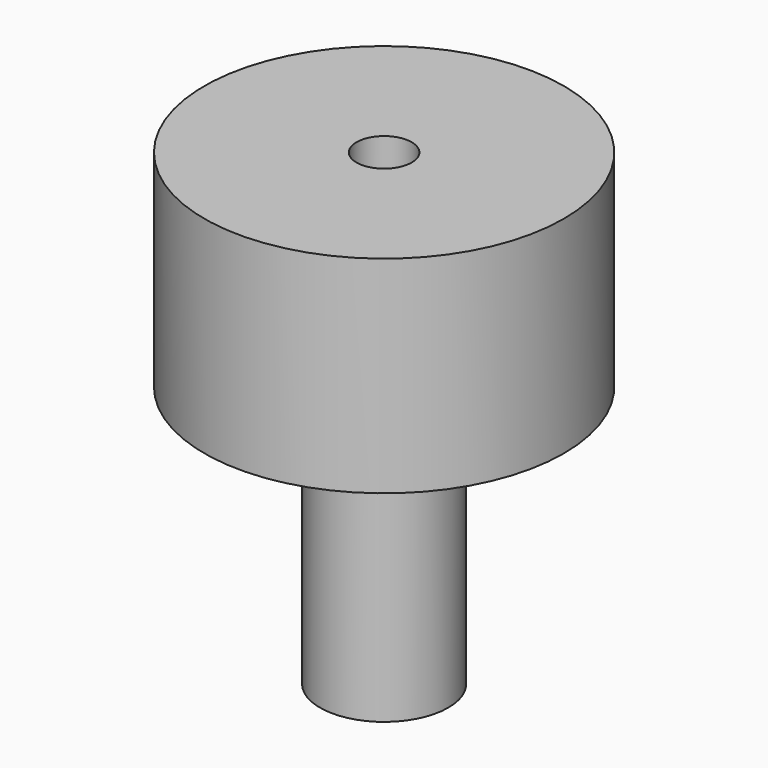
from build123d import *

# Parameters (mm, degrees)
F0_R     = 34.925
F0_R_2   = 5.35813
F1_DEPTH = 40.132
F2_DEPTH = 9.525
F4_R     = 12.4587
F5_DEPTH = 50.8
F6_R     = 5.35813
F7_DEPTH = 25.4
F8_R     = 5.35813
F9_DEPTH = 11.303


with BuildPart() as f1:
    # F0 (on Top) → F1 (new body)
    with BuildSketch(Plane.XY):
        Circle(F0_R)
        Circle(F0_R_2, mode=Mode.SUBTRACT)
    extrude(amount=F1_DEPTH)

    # F0 (on Top) → F2 (join)
    with BuildSketch(Plane.XY):
        Circle(F0_R_2)
    extrude(amount=F2_DEPTH)

    # F4 (on face) → F5 (join)
    with BuildSketch(Plane.XY):
        Circle(F4_R)
    extrude(amount=-F5_DEPTH)

    # F6 (on face) → F7 (cut)
    with BuildSketch(Plane(origin=(0, 0, -50.8), x_dir=(1, 0, 0), z_dir=(0, 0, -1))):
        Circle(F6_R)
    extrude(amount=-F7_DEPTH, mode=Mode.SUBTRACT)

    # F8 (on Top) → F9 (join)
    with BuildSketch(Plane.XY):
        Circle(F8_R)
    extrude(amount=F9_DEPTH)


solid = f1.part
